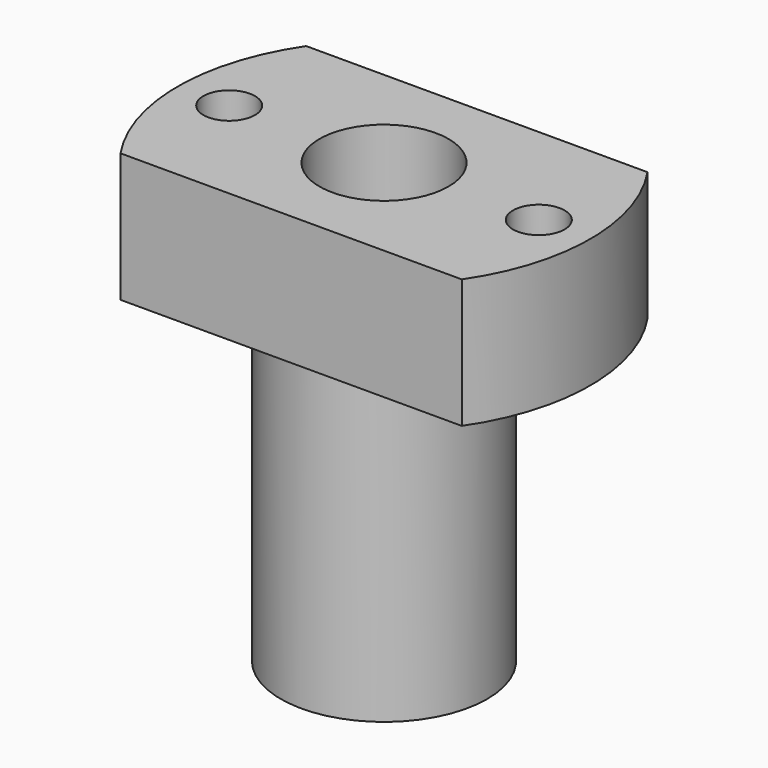
from build123d import *

# Parameters (mm, degrees)
PAD_DEPTH     = 10
SKETCH001_R   = 8
PAD001_DEPTH  = 24
SKETCH002_R   = 5
SKETCH002_R_2 = 2
POCKET_DEPTH  = 34.001


with BuildPart() as part:
    # Sketch → Pad (new body)
    with BuildSketch(Plane.XY):
        with BuildLine():
            ThreePointArc((-13.228757, 9), (-16, 0), (-13.228757, -9))
            Line((-13.228757, -9), (13.228757, -9))
            ThreePointArc((13.228757, -9), (16, 0), (13.228757, 9))
            Line((-13.228757, 9), (13.228757, 9))
        make_face()
    extrude(amount=PAD_DEPTH)

    # Sketch001 (on Face5 of Pad) → Pad001 (join)
    with BuildSketch(Plane(origin=(0, 0, 0), x_dir=(1, 0, 0), z_dir=(0, 0, -1))):
        Circle(SKETCH001_R)
    extrude(amount=PAD001_DEPTH)

    # Sketch002 (on Face5 of Pad001) → Pocket (cut, through all)
    with BuildSketch(Plane.XY.offset(10)):
        Circle(SKETCH002_R)
        with Locations((12, 0)):
            Circle(SKETCH002_R_2)
        with Locations((-12, 0)):
            Circle(SKETCH002_R_2)
    extrude(amount=-POCKET_DEPTH, mode=Mode.SUBTRACT)


solid = part.part
